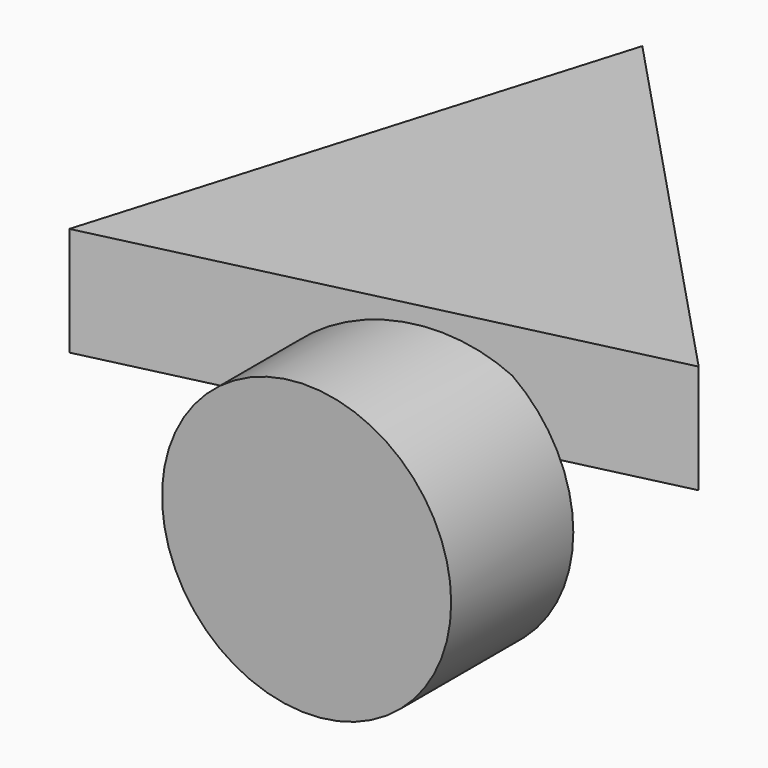
from build123d import *

# Parameters (mm, degrees)
F1_DEPTH = 49.276
F2_R     = 65.422934
F3_DEPTH = 69.088


with BuildPart() as f1:
    # F0 (on Top) → F1 (new body)
    with BuildSketch(Plane.XY):
        Polygon((-157.232028, -39.849121), (82.259093, 16.767509), (-86.517908, 195.864588), align=None)
    extrude(amount=F1_DEPTH)

    # F2 (on Front) → F3 (join)
    with BuildSketch(Plane.XZ):
        with Locations((-26.473386, -23.952069)):
            Circle(F2_R)
    extrude(amount=F3_DEPTH)


solid = f1.part
